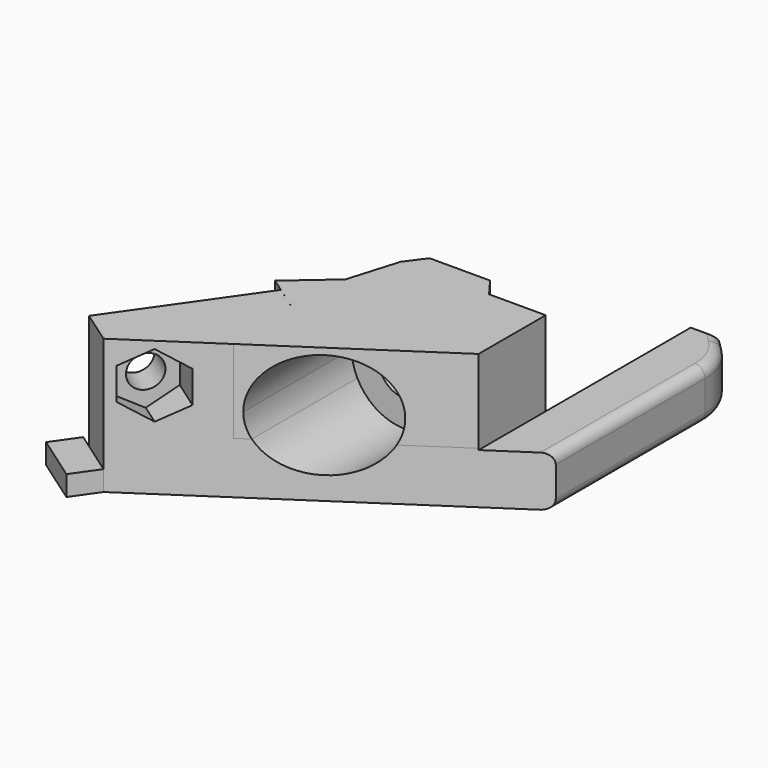
from build123d import *

# Parameters (mm, degrees)
PAD_DEPTH            = 13.4
POCKET001_DEPTH      = 8.4
POCKET001_DEPTH_BACK = 100
SKETCH003_R          = 2.6
POCKET002_DEPTH      = 24.4921624319
SKETCH004_R          = 5.25
POCKET_DEPTH         = 25
SKETCH007_W          = 3
SKETCH007_H          = 2
PAD001_DEPTH         = 1.6
PAD001_DEPTH_BACK    = 4
POCKET005_DEPTH      = 8.25
PAD002_DEPTH         = 13.4
POCKET006_DEPTH      = 5
SKETCH010_R          = 4.25
POCKET007_DEPTH      = 5
CHAMFER_SIZE         = 4
CHAMFER001_SIZE      = 2
FILLET_R             = 6
SKETCH011_R          = 1.6
POCKET008_DEPTH      = 16
POCKET009_DEPTH      = 6
SKETCH013_W          = 8
SKETCH013_H          = 7
POCKET010_DEPTH      = 2
FILLET001_R          = 1
PAD003_DEPTH         = 14
PAD004_DEPTH         = 8.25
POCKET011_DEPTH      = 15


with BuildPart() as part:
    # Sketch → Pad (new body)
    with BuildSketch(Plane.XY):
        Polygon((0, 0), (0, 20), (5, 20), (5, -5), (-24.3031833154, -24.4911624319), (-27.5797914926, -22.1968566865), (-18.6893567291, -9.5), (-20, -8.5822777018), (-20, 0), align=None)
    extrude(amount=PAD_DEPTH)

    # Sketch002 → Pocket001 (cut, two sides)
    with BuildSketch(Plane.XY.offset(13.4)) as pocket001_sk:
        Polygon((14.314081, -22.145182), (14.314081, 26.828188), (0, 26.828188), (0, 0), (0, -22.145182), align=None)
    extrude(amount=-POCKET001_DEPTH, mode=Mode.SUBTRACT)
    extrude(pocket001_sk.sketch, amount=POCKET001_DEPTH_BACK, mode=Mode.SUBTRACT)

    # Sketch003 → Pocket002 (cut, through all)
    with BuildSketch(Plane.XZ):
        with Locations((-10, 7.5)):
            Circle(SKETCH003_R)
    extrude(amount=POCKET002_DEPTH, mode=Mode.SUBTRACT)

    # Sketch004 (on DatumPlane) → Pocket (cut)
    with BuildSketch(Plane(origin=(0, -30, 0), x_dir=(-1, 0, 0), z_dir=(0, 1, 0))):
        with Locations((10, 7.5)):
            Circle(SKETCH004_R)
    extrude(amount=POCKET_DEPTH, mode=Mode.SUBTRACT)

    # Sketch007 (on DatumPlane) → Pad001 (join, two sides)
    with BuildSketch(Plane(origin=(-8.0772066494, 5.6557209836, 0), x_dir=(-0.5735764364, -0.8191520443, 0), z_dir=(-0.8191520443, 0.5735764364, 0))) as pad001_sk:
        with Locations((35.5, 1)):
            Rectangle(SKETCH007_W, SKETCH007_H)
    extrude(amount=PAD001_DEPTH)
    extrude(pad001_sk.sketch, amount=-PAD001_DEPTH_BACK)

    # Sketch008 (on DatumPlane) → Pocket005 (cut)
    with BuildSketch(Plane.XY.offset(13.4)):
        Polygon((-15.88, -5), (-14.38, 0), (-20, 0), (-20, -8.59), (-15.88, -11.4748550574), (-15.88, -25), (-3.690549763, -25), (0, -25), (0, -10), (0, -5), align=None)
    extrude(amount=-POCKET005_DEPTH, mode=Mode.SUBTRACT)

    # Sketch009 → Pad002 (join)
    with BuildSketch(Plane.XY):
        Polygon((-14.375, 0), (-13, 1.85), (-7, 1.85), (-5.625, 0), align=None)
    extrude(amount=PAD002_DEPTH)

    # Sketch003 → Pocket006 (cut)
    with BuildSketch(Plane.XZ):
        with Locations((-10, 7.5)):
            Circle(SKETCH003_R)
    extrude(amount=-POCKET006_DEPTH, mode=Mode.SUBTRACT)

    # Sketch010 → Pocket007 (cut)
    with BuildSketch(Plane.XZ):
        with Locations((-10, 7.5)):
            Circle(SKETCH010_R)
    extrude(amount=-POCKET007_DEPTH, mode=Mode.SUBTRACT)

    # Chamfer
    chamfer_edges = [part.edges().sort_by_distance(p)[0] for p in [
        (5, 20, 2.5),
    ]]
    chamfer(chamfer_edges, length=CHAMFER_SIZE)

    # Chamfer001
    chamfer001_edges = [part.edges().sort_by_distance(p)[0] for p in [
        (0.5, 20, 5),
        (0.5, 20, 0),
    ]]
    chamfer(chamfer001_edges, length=CHAMFER001_SIZE)

    # Fillet
    fillet_edges = [part.edges().sort_by_distance(p)[0] for p in [
        (5, 16, 2.5),
    ]]
    fillet(fillet_edges, radius=FILLET_R)

    # Sketch011 (on DatumPlane) → Pocket008 (cut)
    with BuildSketch(Plane(origin=(-0.7048382508, 0.4935330564, 0), x_dir=(-0.5735764364, -0.8191520443, 0), z_dir=(-0.8191520443, 0.5735764364, 0))):
        with Locations((30.3, 9.5)):
            Circle(SKETCH011_R)
    extrude(amount=POCKET008_DEPTH, mode=Mode.SUBTRACT)

    # Sketch012 (on DatumPlane) → Pocket009 (cut)
    with BuildSketch(Plane(origin=(-0.7048382508, 0.4935330564, 0), x_dir=(-0.5735764364, -0.8191520443, 0), z_dir=(-0.8191520443, 0.5735764364, 0))):
        Polygon((33.05, 7.9122867597), (33.05, 11.0877132403), (30.3, 12.6754264805), (27.55, 11.0877132403), (27.55, 7.9122867597), (30.3, 6.3245735195), align=None)
    extrude(amount=POCKET009_DEPTH, mode=Mode.SUBTRACT)

    # Sketch013 (on DatumPlane) → Pocket010 (cut)
    with BuildSketch(Plane(origin=(-8.0772066494, 5.6557209836, 0), x_dir=(-0.5735764364, -0.8191520443, 0), z_dir=(-0.8191520443, 0.5735764364, 0))):
        with Locations((23.5, 8.5)):
            Rectangle(SKETCH013_W, SKETCH013_H)
    extrude(amount=-POCKET010_DEPTH, mode=Mode.SUBTRACT)

    # Fillet001
    fillet001_edges = [part.edges().sort_by_distance(p)[0] for p in [
        (4.543277, 15.810819, 5),
        (4.543277, 15.810819, 0),
    ]]
    fillet(fillet001_edges, radius=FILLET001_R)

    # Fillet001 Face52 → Pad003 (add)
    with BuildSketch(Plane(origin=(-5.7758983743, -5, 10.0600347273), x_dir=(-1, 0, 0), z_dir=(0, -1, 0))):
        with BuildLine():
            Line((-5.7758983743, -3.3399652727), (10.1041016257, -3.3399652727))
            Line((10.1041016257, -3.3399652727), (10.1041016257, 4.9100347273))
            Line((10.1041016257, 4.9100347273), (8.9187794634, 4.9100347273))
            ThreePointArc((8.9187794634, 4.9100347273), (9.3333852666, 3.7673957652), (9.4741016257, 2.5600347273))
            ThreePointArc((9.4741016257, 2.5600347273), (3.0167405877, -2.5492489137), (-0.4705762121, 4.9100347273))
            Line((-0.4705762121, 4.9100347273), (-5.7758983743, 4.9100347273))
            Line((-5.7758983743, 4.9100347273), (-5.7758983743, -3.3399652727))
        make_face()
    extrude(amount=PAD003_DEPTH)

    # Sketch014 (on Face41 of Pad003) → Pad004 (join)
    with BuildSketch(Plane.XY.offset(5.15)):
        Polygon((-15.88, -5), (-20, -8.5822777018), (-15.88, -11.4748550574), align=None)
    extrude(amount=PAD004_DEPTH)

    # Sketch015 → Pocket011 (cut)
    with BuildSketch(Plane.XY):
        Polygon((-15.88, -18.8884389179), (-17.149737, -23.146951), (5.036606, -23.146951), (0, -8.325775603), align=None)
    extrude(amount=POCKET011_DEPTH, mode=Mode.SUBTRACT)


solid = part.part
